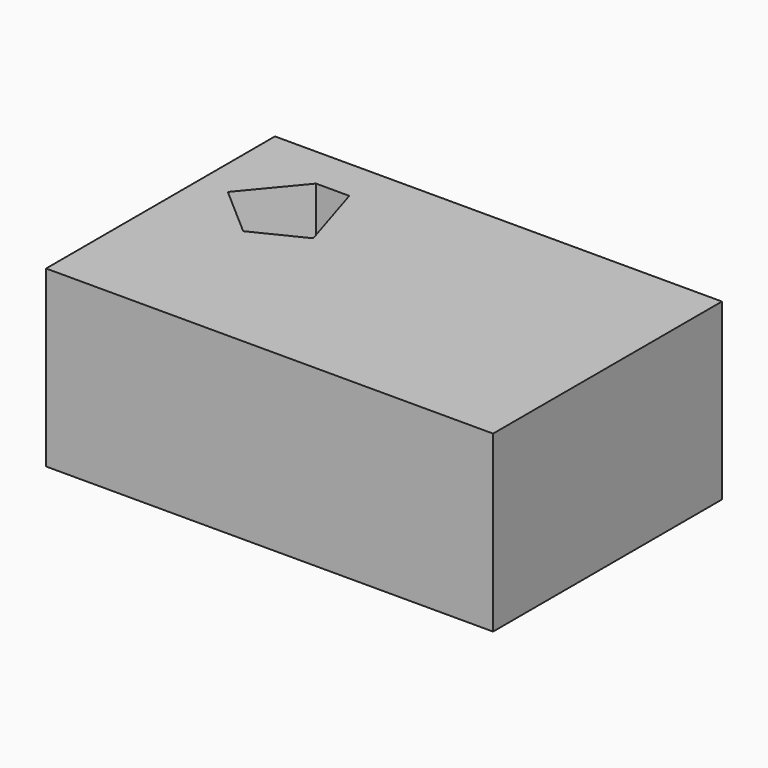
from build123d import *

# Parameters (mm, degrees)
F0_W     = 500
F0_H     = 320
F1_DEPTH = 195
F3_DEPTH = 56


with BuildPart() as f1:
    # F0 (on Top) → F1 (new body)
    with BuildSketch(Plane.XY):
        with Locations((5.541416, -90.640282)):
            Rectangle(F0_W, F0_H)
    extrude(amount=-F1_DEPTH)

    # F2 (on face) → F3 (cut)
    with BuildSketch(Plane.XY):
        Polygon((-123.481445, 22.089018), (-160.660028, 22.089018), (-210.960463, -38.417302), (-154.099107, -87.988749), (-97.966745, -60.287055), align=None)
    extrude(amount=-F3_DEPTH, mode=Mode.SUBTRACT)


solid = f1.part
